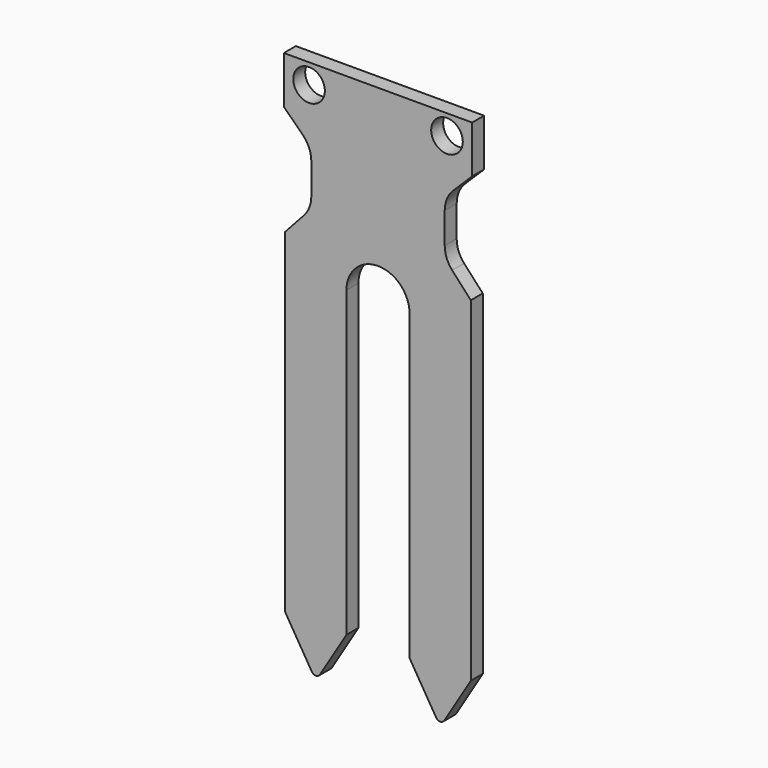
from build123d import *

# Parameters (mm, degrees)
F0_R     = 1.67
F1_DEPTH = 1.58
F2_R     = 3
F3_R     = 0.5


with BuildPart() as f1:
    # F0 (on Front) → F1 (new body)
    with BuildSketch(Plane.XZ):
        with BuildLine():
            Line((9.95, 0), (-9.95, 0))
            Line((-9.95, 0), (-9.95, -5))
            Line((-9.95, -5), (-7.05, -7.870274))
            Line((-7.05, -7.870274), (-7.05, -13.570274))
            Line((-7.05, -13.570274), (-9.805, -16.58))
            Line((-9.805, -16.58), (-9.805, -51.98))
            Line((-9.805, -51.98), (-6.57, -57.3))
            Line((-6.57, -57.3), (-3.335, -51.98))
            Line((-3.335, -51.98), (-3.335, -19.915))
            ThreePointArc((-3.335, -19.915), (0, -16.58), (3.335, -19.915))
            Line((3.335, -19.915), (3.335, -51.98))
            Line((3.335, -51.98), (6.57, -57.3))
            Line((6.57, -57.3), (9.805, -51.98))
            Line((9.805, -51.98), (9.805, -16.58))
            Line((9.805, -16.58), (7.05, -13.570274))
            Line((7.05, -13.570274), (7.05, -7.870274))
            Line((7.05, -7.870274), (9.95, -5))
            Line((9.95, -5), (9.95, 0))
        make_face()
        with Locations((-7.29, -2.11)):
            Circle(F0_R, mode=Mode.SUBTRACT)
        with Locations((7.29, -2.11)):
            Circle(F0_R, mode=Mode.SUBTRACT)
    extrude(amount=F1_DEPTH)

    # F2
    f2_edges = [f1.edges().sort_by_distance(p)[0] for p in [
        (-7.05, -0.79, -7.870274),
        (-7.05, -0.79, -13.570274),
        (7.05, -0.79, -7.870274),
        (7.05, -0.79, -13.570274),
    ]]
    fillet(f2_edges, radius=F2_R)

    # F3
    f3_edges = [f1.edges().sort_by_distance(p)[0] for p in [
        (-6.57, -0.79, -57.3),
        (6.57, -0.79, -57.3),
    ]]
    fillet(f3_edges, radius=F3_R)


solid = f1.part
